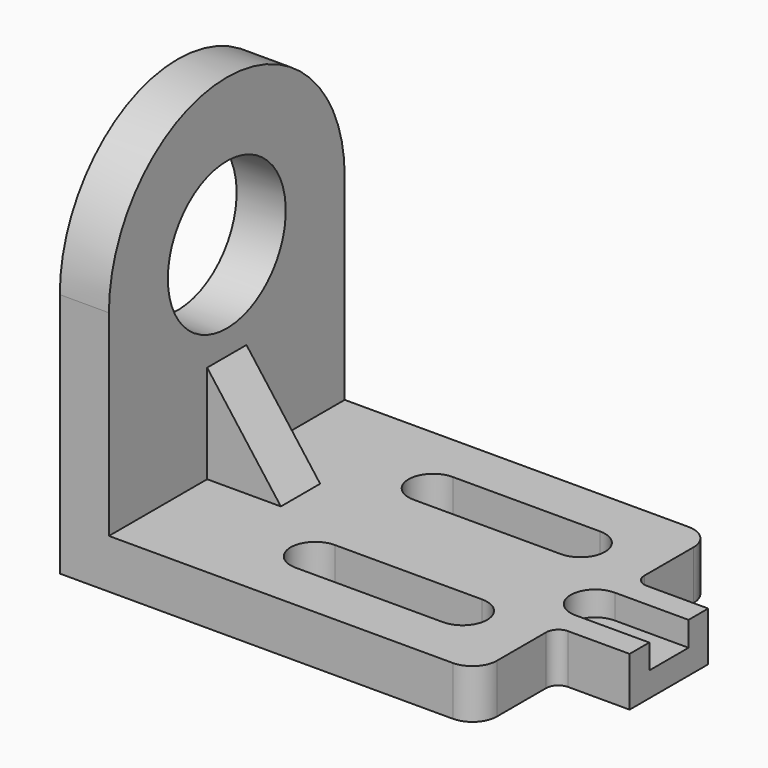
from build123d import *

# Parameters (mm, degrees)
F1_DEPTH = 12.7
F2_DEPTH = 12.7
F3_R     = 38.1
F4_DEPTH = 25.4
F7_DEPTH = 12.7


with BuildPart() as f1:
    # F0 (on Top) → F1 (new body, symmetric)
    with BuildSketch(Plane.XY):
        with BuildLine():
            Line((0, 152.4), (0, 0))
            Line((0, 0), (203.2, 0))
            ThreePointArc((203.2, 0), (212.1802561211, 3.7197438789), (215.9, 12.7))
            Line((215.9, 12.7), (215.9, 44.45))
            ThreePointArc((215.9, 44.45), (217.7598719395, 48.9401280605), (222.25, 50.8))
            Line((222.25, 50.8), (254, 50.8))
            Line((254, 50.8), (254, 63.5))
            Line((254, 63.5), (215.9, 63.5))
            ThreePointArc((215.9, 63.5), (203.2, 76.2), (215.9, 88.9))
            Line((215.9, 88.9), (254, 88.9))
            Line((254, 88.9), (254, 101.6))
            Line((254, 101.6), (222.25, 101.6))
            ThreePointArc((222.25, 101.6), (217.7598719395, 103.4598719395), (215.9, 107.95))
            Line((215.9, 107.95), (215.9, 139.7))
            ThreePointArc((215.9, 139.7), (212.1802561211, 148.6802561211), (203.2, 152.4))
            Line((203.2, 152.4), (0, 152.4))
        make_face()
        with BuildLine():
            ThreePointArc((101.6, 25.4), (88.9, 38.1), (101.6, 50.8))
            Line((101.6, 50.8), (177.8, 50.8))
            ThreePointArc((177.8, 50.8), (190.5, 38.1), (177.8, 25.4))
            Line((177.8, 25.4), (101.6, 25.4))
        make_face(mode=Mode.SUBTRACT)
        with BuildLine():
            ThreePointArc((101.6, 101.6), (88.9, 114.3), (101.6, 127))
            Line((101.6, 127), (177.8, 127))
            ThreePointArc((177.8, 127), (190.5, 114.3), (177.8, 101.6))
            Line((177.8, 101.6), (101.6, 101.6))
        make_face(mode=Mode.SUBTRACT)
    extrude(amount=F1_DEPTH, both=True)

    # F0 (on Top) → F2 (join)
    with BuildSketch(Plane.XY):
        with BuildLine():
            Line((215.9, 63.5), (254, 63.5))
            Line((254, 63.5), (254, 88.9))
            Line((254, 88.9), (215.9, 88.9))
            ThreePointArc((215.9, 88.9), (203.2, 76.2), (215.9, 63.5))
        make_face()
    extrude(amount=-F2_DEPTH)

    # F3 (on face) → F4 (join)
    with BuildSketch(Plane(origin=(0, 0, 0), x_dir=(0, -1, 0), z_dir=(-1, 0, 0))):
        with BuildLine():
            Line((-152.4, 12.7), (0, 12.7))
            Line((0, 12.7), (0, 114.3))
            ThreePointArc((0, 114.3), (-76.2, 190.5), (-152.4, 114.3))
            Line((-152.4, 114.3), (-152.4, 12.7))
        make_face()
        with Locations((-76.2, 114.3)):
            Circle(F3_R, mode=Mode.SUBTRACT)
    extrude(amount=-F4_DEPTH)

    # F6 (on offset) → F7 (join, symmetric)
    with BuildSketch(Plane.XZ.offset(-76.2)):
        Polygon((63.5, 12.7), (25.4, 63.5), (25.4, 12.7), align=None)
    extrude(amount=F7_DEPTH, both=True)


solid = f1.part
